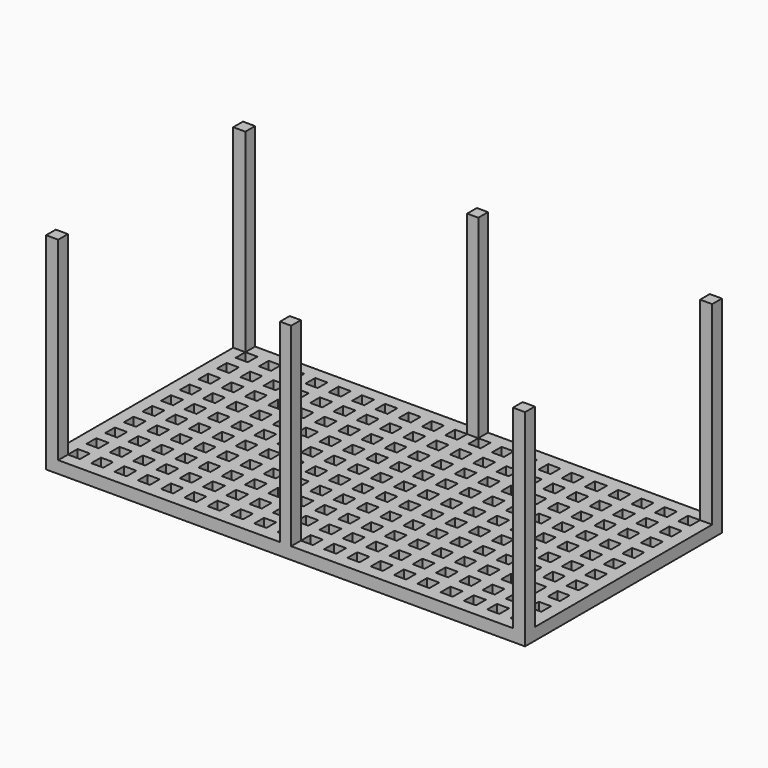
from build123d import *

# Parameters (mm, degrees)
F0_W     = 125.349
F0_H     = 64.389
F0_W_2   = 3.175
F0_H_2   = 3.175
F1_DEPTH = 3.175
F2_W     = 3.175
F2_H     = 3.175
F2_W_2   = 2.921
F3_DEPTH = 50.8


with BuildPart() as f1:
    # F0 (on Top) → F1 (new body)
    with BuildSketch(Plane.XY):
        with Locations((0.8255, 1.143)):
            Rectangle(F0_W, F0_H)
        with Locations((-57.0865, -26.289)):
            Rectangle(F0_W_2, F0_H_2, mode=Mode.SUBTRACT)
        with Locations((-50.9905, -26.289)):
            Rectangle(F0_W_2, F0_H_2, mode=Mode.SUBTRACT)
        with Locations((-44.8945, -26.289)):
            Rectangle(F0_W_2, F0_H_2, mode=Mode.SUBTRACT)
        with Locations((-38.7985, -26.289)):
            Rectangle(F0_W_2, F0_H_2, mode=Mode.SUBTRACT)
        with Locations((-32.7025, -26.289)):
            Rectangle(F0_W_2, F0_H_2, mode=Mode.SUBTRACT)
        with Locations((-57.0865, -20.193)):
            Rectangle(F0_W_2, F0_H_2, mode=Mode.SUBTRACT)
        with Locations((-50.9905, -20.193)):
            Rectangle(F0_W_2, F0_H_2, mode=Mode.SUBTRACT)
        with Locations((-44.8945, -20.193)):
            Rectangle(F0_W_2, F0_H_2, mode=Mode.SUBTRACT)
        with Locations((-38.7985, -20.193)):
            Rectangle(F0_W_2, F0_H_2, mode=Mode.SUBTRACT)
        with Locations((-32.7025, -20.193)):
            Rectangle(F0_W_2, F0_H_2, mode=Mode.SUBTRACT)
        with Locations((-26.6065, -26.289)):
            Rectangle(F0_W_2, F0_H_2, mode=Mode.SUBTRACT)
        with Locations((-20.5105, -26.289)):
            Rectangle(F0_W_2, F0_H_2, mode=Mode.SUBTRACT)
        with Locations((-14.4145, -26.289)):
            Rectangle(F0_W_2, F0_H_2, mode=Mode.SUBTRACT)
        with Locations((-8.3185, -26.289)):
            Rectangle(F0_W_2, F0_H_2, mode=Mode.SUBTRACT)
        with Locations((-2.2225, -26.289)):
            Rectangle(F0_W_2, F0_H_2, mode=Mode.SUBTRACT)
        with Locations((-26.6065, -20.193)):
            Rectangle(F0_W_2, F0_H_2, mode=Mode.SUBTRACT)
        with Locations((-20.5105, -20.193)):
            Rectangle(F0_W_2, F0_H_2, mode=Mode.SUBTRACT)
        with Locations((-14.4145, -20.193)):
            Rectangle(F0_W_2, F0_H_2, mode=Mode.SUBTRACT)
        with Locations((-8.3185, -20.193)):
            Rectangle(F0_W_2, F0_H_2, mode=Mode.SUBTRACT)
        with Locations((-2.2225, -20.193)):
            Rectangle(F0_W_2, F0_H_2, mode=Mode.SUBTRACT)
        with Locations((-57.0865, -14.097)):
            Rectangle(F0_W_2, F0_H_2, mode=Mode.SUBTRACT)
        with Locations((-50.9905, -14.097)):
            Rectangle(F0_W_2, F0_H_2, mode=Mode.SUBTRACT)
        with Locations((-57.0865, -8.001)):
            Rectangle(F0_W_2, F0_H_2, mode=Mode.SUBTRACT)
        with Locations((-50.9905, -8.001)):
            Rectangle(F0_W_2, F0_H_2, mode=Mode.SUBTRACT)
        with Locations((-44.8945, -14.097)):
            Rectangle(F0_W_2, F0_H_2, mode=Mode.SUBTRACT)
        with Locations((-38.7985, -14.097)):
            Rectangle(F0_W_2, F0_H_2, mode=Mode.SUBTRACT)
        with Locations((-32.7025, -14.097)):
            Rectangle(F0_W_2, F0_H_2, mode=Mode.SUBTRACT)
        with Locations((-44.8945, -8.001)):
            Rectangle(F0_W_2, F0_H_2, mode=Mode.SUBTRACT)
        with Locations((-38.7985, -8.001)):
            Rectangle(F0_W_2, F0_H_2, mode=Mode.SUBTRACT)
        with Locations((-32.7025, -8.001)):
            Rectangle(F0_W_2, F0_H_2, mode=Mode.SUBTRACT)
        with Locations((-57.0865, -1.905)):
            Rectangle(F0_W_2, F0_H_2, mode=Mode.SUBTRACT)
        with Locations((-50.9905, -1.905)):
            Rectangle(F0_W_2, F0_H_2, mode=Mode.SUBTRACT)
        with Locations((-44.8945, -1.905)):
            Rectangle(F0_W_2, F0_H_2, mode=Mode.SUBTRACT)
        with Locations((-38.7985, -1.905)):
            Rectangle(F0_W_2, F0_H_2, mode=Mode.SUBTRACT)
        with Locations((-32.7025, -1.905)):
            Rectangle(F0_W_2, F0_H_2, mode=Mode.SUBTRACT)
        with Locations((-26.6065, -14.097)):
            Rectangle(F0_W_2, F0_H_2, mode=Mode.SUBTRACT)
        with Locations((-20.5105, -14.097)):
            Rectangle(F0_W_2, F0_H_2, mode=Mode.SUBTRACT)
        with Locations((-26.6065, -8.001)):
            Rectangle(F0_W_2, F0_H_2, mode=Mode.SUBTRACT)
        with Locations((-20.5105, -8.001)):
            Rectangle(F0_W_2, F0_H_2, mode=Mode.SUBTRACT)
        with Locations((-14.4145, -14.097)):
            Rectangle(F0_W_2, F0_H_2, mode=Mode.SUBTRACT)
        with Locations((-8.3185, -14.097)):
            Rectangle(F0_W_2, F0_H_2, mode=Mode.SUBTRACT)
        with Locations((-2.2225, -14.097)):
            Rectangle(F0_W_2, F0_H_2, mode=Mode.SUBTRACT)
        with Locations((-14.4145, -8.001)):
            Rectangle(F0_W_2, F0_H_2, mode=Mode.SUBTRACT)
        with Locations((-8.3185, -8.001)):
            Rectangle(F0_W_2, F0_H_2, mode=Mode.SUBTRACT)
        with Locations((-2.2225, -8.001)):
            Rectangle(F0_W_2, F0_H_2, mode=Mode.SUBTRACT)
        with Locations((-26.6065, -1.905)):
            Rectangle(F0_W_2, F0_H_2, mode=Mode.SUBTRACT)
        with Locations((-20.5105, -1.905)):
            Rectangle(F0_W_2, F0_H_2, mode=Mode.SUBTRACT)
        with Locations((-14.4145, -1.905)):
            Rectangle(F0_W_2, F0_H_2, mode=Mode.SUBTRACT)
        with Locations((-8.3185, -1.905)):
            Rectangle(F0_W_2, F0_H_2, mode=Mode.SUBTRACT)
        with Locations((-2.2225, -1.905)):
            Rectangle(F0_W_2, F0_H_2, mode=Mode.SUBTRACT)
        with Locations((3.8735, -26.289)):
            Rectangle(F0_W_2, F0_H_2, mode=Mode.SUBTRACT)
        with Locations((9.9695, -26.289)):
            Rectangle(F0_W_2, F0_H_2, mode=Mode.SUBTRACT)
        with Locations((16.0655, -26.289)):
            Rectangle(F0_W_2, F0_H_2, mode=Mode.SUBTRACT)
        with Locations((22.1615, -26.289)):
            Rectangle(F0_W_2, F0_H_2, mode=Mode.SUBTRACT)
        with Locations((28.2575, -26.289)):
            Rectangle(F0_W_2, F0_H_2, mode=Mode.SUBTRACT)
        with Locations((3.8735, -20.193)):
            Rectangle(F0_W_2, F0_H_2, mode=Mode.SUBTRACT)
        with Locations((9.9695, -20.193)):
            Rectangle(F0_W_2, F0_H_2, mode=Mode.SUBTRACT)
        with Locations((16.0655, -20.193)):
            Rectangle(F0_W_2, F0_H_2, mode=Mode.SUBTRACT)
        with Locations((22.1615, -20.193)):
            Rectangle(F0_W_2, F0_H_2, mode=Mode.SUBTRACT)
        with Locations((28.2575, -20.193)):
            Rectangle(F0_W_2, F0_H_2, mode=Mode.SUBTRACT)
        with Locations((34.3535, -26.289)):
            Rectangle(F0_W_2, F0_H_2, mode=Mode.SUBTRACT)
        with Locations((40.4495, -26.289)):
            Rectangle(F0_W_2, F0_H_2, mode=Mode.SUBTRACT)
        with Locations((46.5455, -26.289)):
            Rectangle(F0_W_2, F0_H_2, mode=Mode.SUBTRACT)
        with Locations((52.6415, -26.289)):
            Rectangle(F0_W_2, F0_H_2, mode=Mode.SUBTRACT)
        with Locations((58.7375, -26.289)):
            Rectangle(F0_W_2, F0_H_2, mode=Mode.SUBTRACT)
        with Locations((34.3535, -20.193)):
            Rectangle(F0_W_2, F0_H_2, mode=Mode.SUBTRACT)
        with Locations((40.4495, -20.193)):
            Rectangle(F0_W_2, F0_H_2, mode=Mode.SUBTRACT)
        with Locations((46.5455, -20.193)):
            Rectangle(F0_W_2, F0_H_2, mode=Mode.SUBTRACT)
        with Locations((52.6415, -20.193)):
            Rectangle(F0_W_2, F0_H_2, mode=Mode.SUBTRACT)
        with Locations((58.7375, -20.193)):
            Rectangle(F0_W_2, F0_H_2, mode=Mode.SUBTRACT)
        with Locations((3.8735, -14.097)):
            Rectangle(F0_W_2, F0_H_2, mode=Mode.SUBTRACT)
        with Locations((9.9695, -14.097)):
            Rectangle(F0_W_2, F0_H_2, mode=Mode.SUBTRACT)
        with Locations((16.0655, -14.097)):
            Rectangle(F0_W_2, F0_H_2, mode=Mode.SUBTRACT)
        with Locations((3.8735, -8.001)):
            Rectangle(F0_W_2, F0_H_2, mode=Mode.SUBTRACT)
        with Locations((9.9695, -8.001)):
            Rectangle(F0_W_2, F0_H_2, mode=Mode.SUBTRACT)
        with Locations((16.0655, -8.001)):
            Rectangle(F0_W_2, F0_H_2, mode=Mode.SUBTRACT)
        with Locations((22.1615, -14.097)):
            Rectangle(F0_W_2, F0_H_2, mode=Mode.SUBTRACT)
        with Locations((28.2575, -14.097)):
            Rectangle(F0_W_2, F0_H_2, mode=Mode.SUBTRACT)
        with Locations((22.1615, -8.001)):
            Rectangle(F0_W_2, F0_H_2, mode=Mode.SUBTRACT)
        with Locations((28.2575, -8.001)):
            Rectangle(F0_W_2, F0_H_2, mode=Mode.SUBTRACT)
        with Locations((3.8735, -1.905)):
            Rectangle(F0_W_2, F0_H_2, mode=Mode.SUBTRACT)
        with Locations((9.9695, -1.905)):
            Rectangle(F0_W_2, F0_H_2, mode=Mode.SUBTRACT)
        with Locations((16.0655, -1.905)):
            Rectangle(F0_W_2, F0_H_2, mode=Mode.SUBTRACT)
        with Locations((22.1615, -1.905)):
            Rectangle(F0_W_2, F0_H_2, mode=Mode.SUBTRACT)
        with Locations((28.2575, -1.905)):
            Rectangle(F0_W_2, F0_H_2, mode=Mode.SUBTRACT)
        with Locations((34.3535, -14.097)):
            Rectangle(F0_W_2, F0_H_2, mode=Mode.SUBTRACT)
        with Locations((40.4495, -14.097)):
            Rectangle(F0_W_2, F0_H_2, mode=Mode.SUBTRACT)
        with Locations((46.5455, -14.097)):
            Rectangle(F0_W_2, F0_H_2, mode=Mode.SUBTRACT)
        with Locations((34.3535, -8.001)):
            Rectangle(F0_W_2, F0_H_2, mode=Mode.SUBTRACT)
        with Locations((40.4495, -8.001)):
            Rectangle(F0_W_2, F0_H_2, mode=Mode.SUBTRACT)
        with Locations((46.5455, -8.001)):
            Rectangle(F0_W_2, F0_H_2, mode=Mode.SUBTRACT)
        with Locations((52.6415, -14.097)):
            Rectangle(F0_W_2, F0_H_2, mode=Mode.SUBTRACT)
        with Locations((58.7375, -14.097)):
            Rectangle(F0_W_2, F0_H_2, mode=Mode.SUBTRACT)
        with Locations((52.6415, -8.001)):
            Rectangle(F0_W_2, F0_H_2, mode=Mode.SUBTRACT)
        with Locations((58.7375, -8.001)):
            Rectangle(F0_W_2, F0_H_2, mode=Mode.SUBTRACT)
        with Locations((34.3535, -1.905)):
            Rectangle(F0_W_2, F0_H_2, mode=Mode.SUBTRACT)
        with Locations((40.4495, -1.905)):
            Rectangle(F0_W_2, F0_H_2, mode=Mode.SUBTRACT)
        with Locations((46.5455, -1.905)):
            Rectangle(F0_W_2, F0_H_2, mode=Mode.SUBTRACT)
        with Locations((52.6415, -1.905)):
            Rectangle(F0_W_2, F0_H_2, mode=Mode.SUBTRACT)
        with Locations((58.7375, -1.905)):
            Rectangle(F0_W_2, F0_H_2, mode=Mode.SUBTRACT)
        with Locations((-57.0865, 4.191)):
            Rectangle(F0_W_2, F0_H_2, mode=Mode.SUBTRACT)
        with Locations((-50.9905, 4.191)):
            Rectangle(F0_W_2, F0_H_2, mode=Mode.SUBTRACT)
        with Locations((-44.8945, 4.191)):
            Rectangle(F0_W_2, F0_H_2, mode=Mode.SUBTRACT)
        with Locations((-38.7985, 4.191)):
            Rectangle(F0_W_2, F0_H_2, mode=Mode.SUBTRACT)
        with Locations((-32.7025, 4.191)):
            Rectangle(F0_W_2, F0_H_2, mode=Mode.SUBTRACT)
        with Locations((-57.0865, 10.287)):
            Rectangle(F0_W_2, F0_H_2, mode=Mode.SUBTRACT)
        with Locations((-50.9905, 10.287)):
            Rectangle(F0_W_2, F0_H_2, mode=Mode.SUBTRACT)
        with Locations((-57.0865, 16.383)):
            Rectangle(F0_W_2, F0_H_2, mode=Mode.SUBTRACT)
        with Locations((-50.9905, 16.383)):
            Rectangle(F0_W_2, F0_H_2, mode=Mode.SUBTRACT)
        with Locations((-44.8945, 10.287)):
            Rectangle(F0_W_2, F0_H_2, mode=Mode.SUBTRACT)
        with Locations((-38.7985, 10.287)):
            Rectangle(F0_W_2, F0_H_2, mode=Mode.SUBTRACT)
        with Locations((-32.7025, 10.287)):
            Rectangle(F0_W_2, F0_H_2, mode=Mode.SUBTRACT)
        with Locations((-44.8945, 16.383)):
            Rectangle(F0_W_2, F0_H_2, mode=Mode.SUBTRACT)
        with Locations((-38.7985, 16.383)):
            Rectangle(F0_W_2, F0_H_2, mode=Mode.SUBTRACT)
        with Locations((-32.7025, 16.383)):
            Rectangle(F0_W_2, F0_H_2, mode=Mode.SUBTRACT)
        with Locations((-26.6065, 4.191)):
            Rectangle(F0_W_2, F0_H_2, mode=Mode.SUBTRACT)
        with Locations((-20.5105, 4.191)):
            Rectangle(F0_W_2, F0_H_2, mode=Mode.SUBTRACT)
        with Locations((-14.4145, 4.191)):
            Rectangle(F0_W_2, F0_H_2, mode=Mode.SUBTRACT)
        with Locations((-8.3185, 4.191)):
            Rectangle(F0_W_2, F0_H_2, mode=Mode.SUBTRACT)
        with Locations((-2.2225, 4.191)):
            Rectangle(F0_W_2, F0_H_2, mode=Mode.SUBTRACT)
        with Locations((-26.6065, 10.287)):
            Rectangle(F0_W_2, F0_H_2, mode=Mode.SUBTRACT)
        with Locations((-20.5105, 10.287)):
            Rectangle(F0_W_2, F0_H_2, mode=Mode.SUBTRACT)
        with Locations((-26.6065, 16.383)):
            Rectangle(F0_W_2, F0_H_2, mode=Mode.SUBTRACT)
        with Locations((-20.5105, 16.383)):
            Rectangle(F0_W_2, F0_H_2, mode=Mode.SUBTRACT)
        with Locations((-14.4145, 10.287)):
            Rectangle(F0_W_2, F0_H_2, mode=Mode.SUBTRACT)
        with Locations((-8.3185, 10.287)):
            Rectangle(F0_W_2, F0_H_2, mode=Mode.SUBTRACT)
        with Locations((-2.2225, 10.287)):
            Rectangle(F0_W_2, F0_H_2, mode=Mode.SUBTRACT)
        with Locations((-14.4145, 16.383)):
            Rectangle(F0_W_2, F0_H_2, mode=Mode.SUBTRACT)
        with Locations((-8.3185, 16.383)):
            Rectangle(F0_W_2, F0_H_2, mode=Mode.SUBTRACT)
        with Locations((-2.2225, 16.383)):
            Rectangle(F0_W_2, F0_H_2, mode=Mode.SUBTRACT)
        with Locations((-57.0865, 22.479)):
            Rectangle(F0_W_2, F0_H_2, mode=Mode.SUBTRACT)
        with Locations((-50.9905, 22.479)):
            Rectangle(F0_W_2, F0_H_2, mode=Mode.SUBTRACT)
        with Locations((-44.8945, 22.479)):
            Rectangle(F0_W_2, F0_H_2, mode=Mode.SUBTRACT)
        with Locations((-38.7985, 22.479)):
            Rectangle(F0_W_2, F0_H_2, mode=Mode.SUBTRACT)
        with Locations((-32.7025, 22.479)):
            Rectangle(F0_W_2, F0_H_2, mode=Mode.SUBTRACT)
        with Locations((-57.0865, 28.575)):
            Rectangle(F0_W_2, F0_H_2, mode=Mode.SUBTRACT)
        with Locations((-50.9905, 28.575)):
            Rectangle(F0_W_2, F0_H_2, mode=Mode.SUBTRACT)
        with Locations((-44.8945, 28.575)):
            Rectangle(F0_W_2, F0_H_2, mode=Mode.SUBTRACT)
        with Locations((-38.7985, 28.575)):
            Rectangle(F0_W_2, F0_H_2, mode=Mode.SUBTRACT)
        with Locations((-32.7025, 28.575)):
            Rectangle(F0_W_2, F0_H_2, mode=Mode.SUBTRACT)
        with Locations((-26.6065, 22.479)):
            Rectangle(F0_W_2, F0_H_2, mode=Mode.SUBTRACT)
        with Locations((-20.5105, 22.479)):
            Rectangle(F0_W_2, F0_H_2, mode=Mode.SUBTRACT)
        with Locations((-14.4145, 22.479)):
            Rectangle(F0_W_2, F0_H_2, mode=Mode.SUBTRACT)
        with Locations((-8.3185, 22.479)):
            Rectangle(F0_W_2, F0_H_2, mode=Mode.SUBTRACT)
        with Locations((-2.2225, 22.479)):
            Rectangle(F0_W_2, F0_H_2, mode=Mode.SUBTRACT)
        with Locations((-26.6065, 28.575)):
            Rectangle(F0_W_2, F0_H_2, mode=Mode.SUBTRACT)
        with Locations((-20.5105, 28.575)):
            Rectangle(F0_W_2, F0_H_2, mode=Mode.SUBTRACT)
        with Locations((-14.4145, 28.575)):
            Rectangle(F0_W_2, F0_H_2, mode=Mode.SUBTRACT)
        with Locations((-8.3185, 28.575)):
            Rectangle(F0_W_2, F0_H_2, mode=Mode.SUBTRACT)
        with Locations((-2.2225, 28.575)):
            Rectangle(F0_W_2, F0_H_2, mode=Mode.SUBTRACT)
        with Locations((3.8735, 4.191)):
            Rectangle(F0_W_2, F0_H_2, mode=Mode.SUBTRACT)
        with Locations((9.9695, 4.191)):
            Rectangle(F0_W_2, F0_H_2, mode=Mode.SUBTRACT)
        with Locations((16.0655, 4.191)):
            Rectangle(F0_W_2, F0_H_2, mode=Mode.SUBTRACT)
        with Locations((22.1615, 4.191)):
            Rectangle(F0_W_2, F0_H_2, mode=Mode.SUBTRACT)
        with Locations((28.2575, 4.191)):
            Rectangle(F0_W_2, F0_H_2, mode=Mode.SUBTRACT)
        with Locations((3.8735, 10.287)):
            Rectangle(F0_W_2, F0_H_2, mode=Mode.SUBTRACT)
        with Locations((9.9695, 10.287)):
            Rectangle(F0_W_2, F0_H_2, mode=Mode.SUBTRACT)
        with Locations((16.0655, 10.287)):
            Rectangle(F0_W_2, F0_H_2, mode=Mode.SUBTRACT)
        with Locations((3.8735, 16.383)):
            Rectangle(F0_W_2, F0_H_2, mode=Mode.SUBTRACT)
        with Locations((9.9695, 16.383)):
            Rectangle(F0_W_2, F0_H_2, mode=Mode.SUBTRACT)
        with Locations((16.0655, 16.383)):
            Rectangle(F0_W_2, F0_H_2, mode=Mode.SUBTRACT)
        with Locations((22.1615, 10.287)):
            Rectangle(F0_W_2, F0_H_2, mode=Mode.SUBTRACT)
        with Locations((28.2575, 10.287)):
            Rectangle(F0_W_2, F0_H_2, mode=Mode.SUBTRACT)
        with Locations((22.1615, 16.383)):
            Rectangle(F0_W_2, F0_H_2, mode=Mode.SUBTRACT)
        with Locations((28.2575, 16.383)):
            Rectangle(F0_W_2, F0_H_2, mode=Mode.SUBTRACT)
        with Locations((34.3535, 4.191)):
            Rectangle(F0_W_2, F0_H_2, mode=Mode.SUBTRACT)
        with Locations((40.4495, 4.191)):
            Rectangle(F0_W_2, F0_H_2, mode=Mode.SUBTRACT)
        with Locations((46.5455, 4.191)):
            Rectangle(F0_W_2, F0_H_2, mode=Mode.SUBTRACT)
        with Locations((52.6415, 4.191)):
            Rectangle(F0_W_2, F0_H_2, mode=Mode.SUBTRACT)
        with Locations((58.7375, 4.191)):
            Rectangle(F0_W_2, F0_H_2, mode=Mode.SUBTRACT)
        with Locations((34.3535, 10.287)):
            Rectangle(F0_W_2, F0_H_2, mode=Mode.SUBTRACT)
        with Locations((40.4495, 10.287)):
            Rectangle(F0_W_2, F0_H_2, mode=Mode.SUBTRACT)
        with Locations((46.5455, 10.287)):
            Rectangle(F0_W_2, F0_H_2, mode=Mode.SUBTRACT)
        with Locations((34.3535, 16.383)):
            Rectangle(F0_W_2, F0_H_2, mode=Mode.SUBTRACT)
        with Locations((40.4495, 16.383)):
            Rectangle(F0_W_2, F0_H_2, mode=Mode.SUBTRACT)
        with Locations((46.5455, 16.383)):
            Rectangle(F0_W_2, F0_H_2, mode=Mode.SUBTRACT)
        with Locations((52.6415, 10.287)):
            Rectangle(F0_W_2, F0_H_2, mode=Mode.SUBTRACT)
        with Locations((58.7375, 10.287)):
            Rectangle(F0_W_2, F0_H_2, mode=Mode.SUBTRACT)
        with Locations((52.6415, 16.383)):
            Rectangle(F0_W_2, F0_H_2, mode=Mode.SUBTRACT)
        with Locations((58.7375, 16.383)):
            Rectangle(F0_W_2, F0_H_2, mode=Mode.SUBTRACT)
        with Locations((3.8735, 22.479)):
            Rectangle(F0_W_2, F0_H_2, mode=Mode.SUBTRACT)
        with Locations((9.9695, 22.479)):
            Rectangle(F0_W_2, F0_H_2, mode=Mode.SUBTRACT)
        with Locations((16.0655, 22.479)):
            Rectangle(F0_W_2, F0_H_2, mode=Mode.SUBTRACT)
        with Locations((22.1615, 22.479)):
            Rectangle(F0_W_2, F0_H_2, mode=Mode.SUBTRACT)
        with Locations((28.2575, 22.479)):
            Rectangle(F0_W_2, F0_H_2, mode=Mode.SUBTRACT)
        with Locations((3.8735, 28.575)):
            Rectangle(F0_W_2, F0_H_2, mode=Mode.SUBTRACT)
        with Locations((9.9695, 28.575)):
            Rectangle(F0_W_2, F0_H_2, mode=Mode.SUBTRACT)
        with Locations((16.0655, 28.575)):
            Rectangle(F0_W_2, F0_H_2, mode=Mode.SUBTRACT)
        with Locations((22.1615, 28.575)):
            Rectangle(F0_W_2, F0_H_2, mode=Mode.SUBTRACT)
        with Locations((28.2575, 28.575)):
            Rectangle(F0_W_2, F0_H_2, mode=Mode.SUBTRACT)
        with Locations((34.3535, 22.479)):
            Rectangle(F0_W_2, F0_H_2, mode=Mode.SUBTRACT)
        with Locations((40.4495, 22.479)):
            Rectangle(F0_W_2, F0_H_2, mode=Mode.SUBTRACT)
        with Locations((46.5455, 22.479)):
            Rectangle(F0_W_2, F0_H_2, mode=Mode.SUBTRACT)
        with Locations((52.6415, 22.479)):
            Rectangle(F0_W_2, F0_H_2, mode=Mode.SUBTRACT)
        with Locations((58.7375, 22.479)):
            Rectangle(F0_W_2, F0_H_2, mode=Mode.SUBTRACT)
        with Locations((34.3535, 28.575)):
            Rectangle(F0_W_2, F0_H_2, mode=Mode.SUBTRACT)
        with Locations((40.4495, 28.575)):
            Rectangle(F0_W_2, F0_H_2, mode=Mode.SUBTRACT)
        with Locations((46.5455, 28.575)):
            Rectangle(F0_W_2, F0_H_2, mode=Mode.SUBTRACT)
        with Locations((52.6415, 28.575)):
            Rectangle(F0_W_2, F0_H_2, mode=Mode.SUBTRACT)
        with Locations((58.7375, 28.575)):
            Rectangle(F0_W_2, F0_H_2, mode=Mode.SUBTRACT)
    extrude(amount=F1_DEPTH)

    # F2 (on face) → F3 (join)
    with BuildSketch(Plane.XY.offset(3.175)):
        with Locations((-60.2615, 31.75)):
            Rectangle(F2_W, F2_H)
        with Locations((61.9125, 31.75)):
            Rectangle(F2_W, F2_H)
        with Locations((61.9125, -29.464)):
            Rectangle(F2_W, F2_H)
        with Locations((-60.2615, -29.464)):
            Rectangle(F2_W, F2_H)
        with Locations((0.8255, 31.75)):
            Rectangle(F2_W_2, F2_H)
        with Locations((0.8255, -29.464)):
            Rectangle(F2_W_2, F2_H)
    extrude(amount=F3_DEPTH)


solid = f1.part
